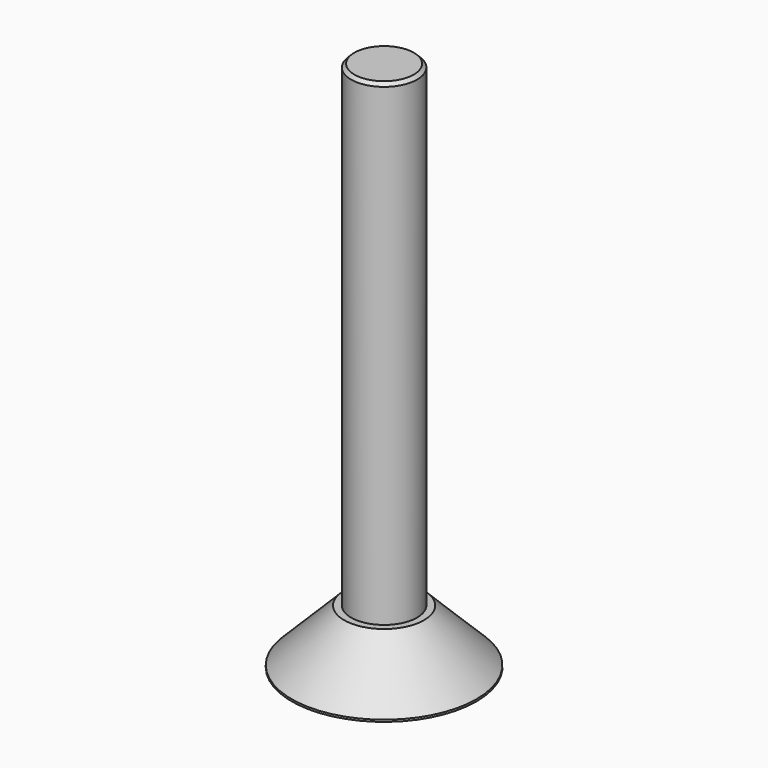
from build123d import *

# Parameters (mm, degrees)
BOX_W             = 0.2
BOX_H             = 2.5
BOX_DEPTH         = 0.5
BOX001_W          = 2.5
BOX001_H          = 0.2
BOX001_DEPTH      = 0.5
CYLINDER_R        = 2.8
CYLINDER_DEPTH    = 1.65
CYLINDER001_R     = 1
CYLINDER001_DEPTH = 16
CHAMFER_SIZE      = 1.59
CHAMFER001_SIZE   = 0.1


with BuildPart() as obj1:
    # Box → Box (new body)
    with BuildSketch(Plane(origin=(-0.1, -1.25, 0), x_dir=(1, 0, 0), z_dir=(0, 0, 1))):
        with Locations((0.1, 1.25)):
            Rectangle(BOX_W, BOX_H)
    extrude(amount=BOX_DEPTH)


with BuildPart() as fusion:
    # Box001 → Box001 (new body)
    with BuildSketch(Plane(origin=(-1.25, -0.1, 0), x_dir=(1, 0, 0), z_dir=(0, 0, 1))):
        with Locations((1.25, 0.1)):
            Rectangle(BOX001_W, BOX001_H)
    extrude(amount=BOX001_DEPTH)

    # Fusion: union obj1
    add(obj1.part)


with BuildPart() as zylinder:
    # Cylinder → Cylinder (new body)
    with BuildSketch(Plane.XY):
        Circle(CYLINDER_R)
    extrude(amount=CYLINDER_DEPTH)


with BuildPart() as screw:
    # Cylinder001 → Cylinder001 (new body)
    with BuildSketch(Plane.XY.offset(0.1)):
        Circle(CYLINDER001_R)
    extrude(amount=CYLINDER001_DEPTH)

    # Fusion001: union Zylinder
    add(zylinder.part)

    # Cut: cut Fusion
    add(fusion.part, mode=Mode.SUBTRACT)

    # Chamfer
    chamfer_edges = [screw.edges().sort_by_distance(p)[0] for p in [
        (-2.8, 0, 1.65),
    ]]
    chamfer(chamfer_edges, length=CHAMFER_SIZE)

    # Chamfer001
    chamfer001_edges = [screw.edges().sort_by_distance(p)[0] for p in [
        (-1, 0, 16.1),
    ]]
    chamfer(chamfer001_edges, length=CHAMFER001_SIZE)


solid = screw.part
